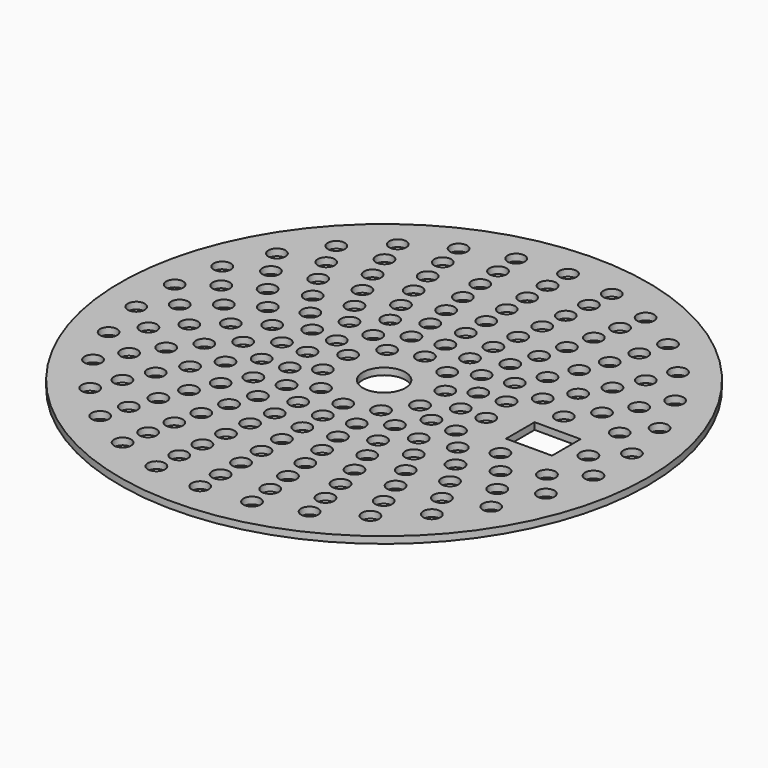
from build123d import *

# Parameters (mm, degrees)
F0_R     = 15.5
F0_R_2   = 0.5
F0_R_3   = 1.25
F1_DEPTH = 0.4
F2_W     = 2.7
F2_H     = 2.1
F3_DEPTH = 25


with BuildPart() as f1:
    # F0 (on Top) → F1 (new body)
    with BuildSketch(Plane.XY):
        Circle(F0_R)
        with Locations((-7.935101, -10.921729)):
            Circle(F0_R_2, mode=Mode.SUBTRACT)
        with Locations((-10.032455, -9.033263)):
            Circle(F0_R_2, mode=Mode.SUBTRACT)
        with Locations((-5.490945, -12.332864)):
            Circle(F0_R_2, mode=Mode.SUBTRACT)
        with Locations((-2.806808, -13.204993)):
            Circle(F0_R_2, mode=Mode.SUBTRACT)
        with Locations((-2.670251, -11.699135)):
            Circle(F0_R_2, mode=Mode.SUBTRACT)
        with Locations((-5.206605, -10.811626)):
            Circle(F0_R_2, mode=Mode.SUBTRACT)
        with Locations((-7.481878, -9.381978)):
            Circle(F0_R_2, mode=Mode.SUBTRACT)
        with Locations((-6.962788, -7.859363)):
            Circle(F0_R_2, mode=Mode.SUBTRACT)
        with Locations((-4.879593, -9.297288)):
            Circle(F0_R_2, mode=Mode.SUBTRACT)
        with Locations((-4.5, -7.794229)):
            Circle(F0_R_2, mode=Mode.SUBTRACT)
        with Locations((-2.512814, -10.194889)):
            Circle(F0_R_2, mode=Mode.SUBTRACT)
        with Locations((-2.329371, -8.693332)):
            Circle(F0_R_2, mode=Mode.SUBTRACT)
        with Locations((-11.691343, -6.75)):
            Circle(F0_R_2, mode=Mode.SUBTRACT)
        with Locations((-12.839263, -4.171729)):
            Circle(F0_R_2, mode=Mode.SUBTRACT)
        with Locations((-9.381978, -7.481878)):
            Circle(F0_R_2, mode=Mode.SUBTRACT)
        with Locations((-8.641331, -5.96468)):
            Circle(F0_R_2, mode=Mode.SUBTRACT)
        with Locations((-10.811626, -5.206605)):
            Circle(F0_R_2, mode=Mode.SUBTRACT)
        with Locations((-7.794229, -4.5)):
            Circle(F0_R_2, mode=Mode.SUBTRACT)
        with Locations((-11.699135, -2.670251)):
            Circle(F0_R_2, mode=Mode.SUBTRACT)
        with Locations((-13.426046, -1.411134)):
            Circle(F0_R_2, mode=Mode.SUBTRACT)
        with Locations((-9.817671, -3.723351)):
            Circle(F0_R_2, mode=Mode.SUBTRACT)
        with Locations((-8.693332, -2.329371)):
            Circle(F0_R_2, mode=Mode.SUBTRACT)
        with Locations((-10.423443, -1.265635)):
            Circle(F0_R_2, mode=Mode.SUBTRACT)
        with Locations((-6.363961, -6.363961)):
            Circle(F0_R_2, mode=Mode.SUBTRACT)
        with Locations((-4.054806, -6.309401)):
            Circle(F0_R_2, mode=Mode.SUBTRACT)
        with Locations((-5.668122, -4.911456)):
            Circle(F0_R_2, mode=Mode.SUBTRACT)
        with Locations((-2.112994, -7.196197)):
            Circle(F0_R_2, mode=Mode.SUBTRACT)
        with Locations((-3.526712, -4.854102)):
            Circle(F0_R_2, mode=Mode.SUBTRACT)
        with Locations((-1.854102, -5.706339)):
            Circle(F0_R_2, mode=Mode.SUBTRACT)
        with Locations((-1.722075, -4.157458)):
            Circle(F0_R_2, mode=Mode.SUBTRACT)
        with Locations((-6.82224, -3.115613)):
            Circle(F0_R_2, mode=Mode.SUBTRACT)
        with Locations((-4.854102, -3.526712)):
            Circle(F0_R_2, mode=Mode.SUBTRACT)
        with Locations((-7.423661, -1.067361)):
            Circle(F0_R_2, mode=Mode.SUBTRACT)
        with Locations((-5.706339, -1.854102)):
            Circle(F0_R_2, mode=Mode.SUBTRACT)
        with Locations((-4.157458, -1.722075)):
            Circle(F0_R_2, mode=Mode.SUBTRACT)
        with Locations((-3.181981, -3.181981)):
            Circle(F0_R_2, mode=Mode.SUBTRACT)
        with Locations((-1.763356, -2.427051)):
            Circle(F0_R_2, mode=Mode.SUBTRACT)
        with Locations((-2.85317, -0.927051)):
            Circle(F0_R_2, mode=Mode.SUBTRACT)
        with Locations((0, -13.5)):
            Circle(F0_R_2, mode=Mode.SUBTRACT)
        with Locations((0, -12)):
            Circle(F0_R_2, mode=Mode.SUBTRACT)
        with Locations((2.806808, -13.204993)):
            Circle(F0_R_2, mode=Mode.SUBTRACT)
        with Locations((2.670251, -11.699135)):
            Circle(F0_R_2, mode=Mode.SUBTRACT)
        with Locations((5.490945, -12.332864)):
            Circle(F0_R_2, mode=Mode.SUBTRACT)
        with Locations((0, -10.5)):
            Circle(F0_R_2, mode=Mode.SUBTRACT)
        with Locations((2.512814, -10.194889)):
            Circle(F0_R_2, mode=Mode.SUBTRACT)
        with Locations((0, -9)):
            Circle(F0_R_2, mode=Mode.SUBTRACT)
        with Locations((2.329371, -8.693332)):
            Circle(F0_R_2, mode=Mode.SUBTRACT)
        with Locations((5.206605, -10.811626)):
            Circle(F0_R_2, mode=Mode.SUBTRACT)
        with Locations((4.879593, -9.297288)):
            Circle(F0_R_2, mode=Mode.SUBTRACT)
        with Locations((4.5, -7.794229)):
            Circle(F0_R_2, mode=Mode.SUBTRACT)
        with Locations((7.481878, -9.381978)):
            Circle(F0_R_2, mode=Mode.SUBTRACT)
        with Locations((6.962788, -7.859363)):
            Circle(F0_R_2, mode=Mode.SUBTRACT)
        with Locations((7.935101, -10.921729)):
            Circle(F0_R_2, mode=Mode.SUBTRACT)
        with Locations((10.032455, -9.033263)):
            Circle(F0_R_2, mode=Mode.SUBTRACT)
        with Locations((0, -7.5)):
            Circle(F0_R_2, mode=Mode.SUBTRACT)
        with Locations((0, -6)):
            Circle(F0_R_2, mode=Mode.SUBTRACT)
        with Locations((2.112994, -7.196197)):
            Circle(F0_R_2, mode=Mode.SUBTRACT)
        with Locations((1.854102, -5.706339)):
            Circle(F0_R_2, mode=Mode.SUBTRACT)
        with Locations((0, -4.5)):
            Circle(F0_R_2, mode=Mode.SUBTRACT)
        with Locations((1.722075, -4.157458)):
            Circle(F0_R_2, mode=Mode.SUBTRACT)
        with Locations((3.526712, -4.854102)):
            Circle(F0_R_2, mode=Mode.SUBTRACT)
        with Locations((4.054806, -6.309401)):
            Circle(F0_R_2, mode=Mode.SUBTRACT)
        with Locations((6.363961, -6.363961)):
            Circle(F0_R_2, mode=Mode.SUBTRACT)
        with Locations((5.668122, -4.911456)):
            Circle(F0_R_2, mode=Mode.SUBTRACT)
        with Locations((0, -3)):
            Circle(F0_R_2, mode=Mode.SUBTRACT)
        with Locations((1.763356, -2.427051)):
            Circle(F0_R_2, mode=Mode.SUBTRACT)
        with Locations((3.181981, -3.181981)):
            Circle(F0_R_2, mode=Mode.SUBTRACT)
        with Locations((2.85317, -0.927051)):
            Circle(F0_R_2, mode=Mode.SUBTRACT)
        with Locations((4.854102, -3.526712)):
            Circle(F0_R_2, mode=Mode.SUBTRACT)
        with Locations((6.82224, -3.115613)):
            Circle(F0_R_2, mode=Mode.SUBTRACT)
        with Locations((4.157458, -1.722075)):
            Circle(F0_R_2, mode=Mode.SUBTRACT)
        with Locations((5.706339, -1.854102)):
            Circle(F0_R_2, mode=Mode.SUBTRACT)
        with Locations((9.381978, -7.481878)):
            Circle(F0_R_2, mode=Mode.SUBTRACT)
        with Locations((8.641331, -5.96468)):
            Circle(F0_R_2, mode=Mode.SUBTRACT)
        with Locations((7.794229, -4.5)):
            Circle(F0_R_2, mode=Mode.SUBTRACT)
        with Locations((10.811626, -5.206605)):
            Circle(F0_R_2, mode=Mode.SUBTRACT)
        with Locations((11.691343, -6.75)):
            Circle(F0_R_2, mode=Mode.SUBTRACT)
        with Locations((12.839263, -4.171729)):
            Circle(F0_R_2, mode=Mode.SUBTRACT)
        with Locations((8.693332, -2.329371)):
            Circle(F0_R_2, mode=Mode.SUBTRACT)
        with Locations((9.817671, -3.723351)):
            Circle(F0_R_2, mode=Mode.SUBTRACT)
        with Locations((11.699135, -2.670251)):
            Circle(F0_R_2, mode=Mode.SUBTRACT)
        with Locations((13.426046, -1.411134)):
            Circle(F0_R_2, mode=Mode.SUBTRACT)
        with Locations((-12, 0)):
            Circle(F0_R_2, mode=Mode.SUBTRACT)
        with Locations((-13.426046, 1.411134)):
            Circle(F0_R_2, mode=Mode.SUBTRACT)
        with Locations((-11.699135, 2.670251)):
            Circle(F0_R_2, mode=Mode.SUBTRACT)
        with Locations((-10.423443, 1.265635)):
            Circle(F0_R_2, mode=Mode.SUBTRACT)
        with Locations((-9, 0)):
            Circle(F0_R_2, mode=Mode.SUBTRACT)
        with Locations((-9.817671, 3.723351)):
            Circle(F0_R_2, mode=Mode.SUBTRACT)
        with Locations((-8.693332, 2.329371)):
            Circle(F0_R_2, mode=Mode.SUBTRACT)
        with Locations((-12.839263, 4.171729)):
            Circle(F0_R_2, mode=Mode.SUBTRACT)
        with Locations((-11.691343, 6.75)):
            Circle(F0_R_2, mode=Mode.SUBTRACT)
        with Locations((-10.811626, 5.206605)):
            Circle(F0_R_2, mode=Mode.SUBTRACT)
        with Locations((-7.794229, 4.5)):
            Circle(F0_R_2, mode=Mode.SUBTRACT)
        with Locations((-8.641331, 5.96468)):
            Circle(F0_R_2, mode=Mode.SUBTRACT)
        with Locations((-9.381978, 7.481878)):
            Circle(F0_R_2, mode=Mode.SUBTRACT)
        with Locations((-6, 0)):
            Circle(F0_R_2, mode=Mode.SUBTRACT)
        with Locations((-7.423661, 1.067361)):
            Circle(F0_R_2, mode=Mode.SUBTRACT)
        with Locations((-4.5, 0)):
            Circle(F0_R_2, mode=Mode.SUBTRACT)
        with Locations((-5.706339, 1.854102)):
            Circle(F0_R_2, mode=Mode.SUBTRACT)
        with Locations((-4.157458, 1.722075)):
            Circle(F0_R_2, mode=Mode.SUBTRACT)
        with Locations((-6.82224, 3.115613)):
            Circle(F0_R_2, mode=Mode.SUBTRACT)
        with Locations((-4.854102, 3.526712)):
            Circle(F0_R_2, mode=Mode.SUBTRACT)
        with Locations((-2.85317, 0.927051)):
            Circle(F0_R_2, mode=Mode.SUBTRACT)
        with Locations((-3.181981, 3.181981)):
            Circle(F0_R_2, mode=Mode.SUBTRACT)
        with Locations((-1.763356, 2.427051)):
            Circle(F0_R_2, mode=Mode.SUBTRACT)
        with Locations((-5.668122, 4.911456)):
            Circle(F0_R_2, mode=Mode.SUBTRACT)
        with Locations((-6.363961, 6.363961)):
            Circle(F0_R_2, mode=Mode.SUBTRACT)
        with Locations((-4.054806, 6.309401)):
            Circle(F0_R_2, mode=Mode.SUBTRACT)
        with Locations((-3.526712, 4.854102)):
            Circle(F0_R_2, mode=Mode.SUBTRACT)
        with Locations((-1.722075, 4.157458)):
            Circle(F0_R_2, mode=Mode.SUBTRACT)
        with Locations((-1.854102, 5.706339)):
            Circle(F0_R_2, mode=Mode.SUBTRACT)
        with Locations((-2.112994, 7.196197)):
            Circle(F0_R_2, mode=Mode.SUBTRACT)
        with Locations((-10.032455, 9.033263)):
            Circle(F0_R_2, mode=Mode.SUBTRACT)
        with Locations((-7.935101, 10.921729)):
            Circle(F0_R_2, mode=Mode.SUBTRACT)
        with Locations((-6.962788, 7.859363)):
            Circle(F0_R_2, mode=Mode.SUBTRACT)
        with Locations((-7.481878, 9.381978)):
            Circle(F0_R_2, mode=Mode.SUBTRACT)
        with Locations((-4.5, 7.794229)):
            Circle(F0_R_2, mode=Mode.SUBTRACT)
        with Locations((-4.879593, 9.297288)):
            Circle(F0_R_2, mode=Mode.SUBTRACT)
        with Locations((-5.206605, 10.811626)):
            Circle(F0_R_2, mode=Mode.SUBTRACT)
        with Locations((-2.329371, 8.693332)):
            Circle(F0_R_2, mode=Mode.SUBTRACT)
        with Locations((-2.512814, 10.194889)):
            Circle(F0_R_2, mode=Mode.SUBTRACT)
        with Locations((-5.490945, 12.332864)):
            Circle(F0_R_2, mode=Mode.SUBTRACT)
        with Locations((-2.670251, 11.699135)):
            Circle(F0_R_2, mode=Mode.SUBTRACT)
        with Locations((-2.806808, 13.204993)):
            Circle(F0_R_2, mode=Mode.SUBTRACT)
        Circle(F0_R_3, mode=Mode.SUBTRACT)
        with Locations((2.85317, 0.927051)):
            Circle(F0_R_2, mode=Mode.SUBTRACT)
        with Locations((1.763356, 2.427051)):
            Circle(F0_R_2, mode=Mode.SUBTRACT)
        with Locations((0, 3)):
            Circle(F0_R_2, mode=Mode.SUBTRACT)
        with Locations((3.181981, 3.181981)):
            Circle(F0_R_2, mode=Mode.SUBTRACT)
        with Locations((4.5, 0)):
            Circle(F0_R_2, mode=Mode.SUBTRACT)
        with Locations((4.157458, 1.722075)):
            Circle(F0_R_2, mode=Mode.SUBTRACT)
        with Locations((5.706339, 1.854102)):
            Circle(F0_R_2, mode=Mode.SUBTRACT)
        with Locations((6, 0)):
            Circle(F0_R_2, mode=Mode.SUBTRACT)
        with Locations((4.854102, 3.526712)):
            Circle(F0_R_2, mode=Mode.SUBTRACT)
        with Locations((6.82224, 3.115613)):
            Circle(F0_R_2, mode=Mode.SUBTRACT)
        with Locations((0, 4.5)):
            Circle(F0_R_2, mode=Mode.SUBTRACT)
        with Locations((1.722075, 4.157458)):
            Circle(F0_R_2, mode=Mode.SUBTRACT)
        with Locations((1.854102, 5.706339)):
            Circle(F0_R_2, mode=Mode.SUBTRACT)
        with Locations((3.526712, 4.854102)):
            Circle(F0_R_2, mode=Mode.SUBTRACT)
        with Locations((0, 6)):
            Circle(F0_R_2, mode=Mode.SUBTRACT)
        with Locations((0, 7.5)):
            Circle(F0_R_2, mode=Mode.SUBTRACT)
        with Locations((2.112994, 7.196197)):
            Circle(F0_R_2, mode=Mode.SUBTRACT)
        with Locations((5.668122, 4.911456)):
            Circle(F0_R_2, mode=Mode.SUBTRACT)
        with Locations((4.054806, 6.309401)):
            Circle(F0_R_2, mode=Mode.SUBTRACT)
        with Locations((6.363961, 6.363961)):
            Circle(F0_R_2, mode=Mode.SUBTRACT)
        with Locations((8.693332, 2.329371)):
            Circle(F0_R_2, mode=Mode.SUBTRACT)
        with Locations((9.817671, 3.723351)):
            Circle(F0_R_2, mode=Mode.SUBTRACT)
        with Locations((12, 0)):
            Circle(F0_R_2, mode=Mode.SUBTRACT)
        with Locations((13.426046, 1.411134)):
            Circle(F0_R_2, mode=Mode.SUBTRACT)
        with Locations((11.699135, 2.670251)):
            Circle(F0_R_2, mode=Mode.SUBTRACT)
        with Locations((7.794229, 4.5)):
            Circle(F0_R_2, mode=Mode.SUBTRACT)
        with Locations((10.811626, 5.206605)):
            Circle(F0_R_2, mode=Mode.SUBTRACT)
        with Locations((8.641331, 5.96468)):
            Circle(F0_R_2, mode=Mode.SUBTRACT)
        with Locations((9.381978, 7.481878)):
            Circle(F0_R_2, mode=Mode.SUBTRACT)
        with Locations((12.839263, 4.171729)):
            Circle(F0_R_2, mode=Mode.SUBTRACT)
        with Locations((11.691343, 6.75)):
            Circle(F0_R_2, mode=Mode.SUBTRACT)
        with Locations((0, 9)):
            Circle(F0_R_2, mode=Mode.SUBTRACT)
        with Locations((2.329371, 8.693332)):
            Circle(F0_R_2, mode=Mode.SUBTRACT)
        with Locations((0, 10.5)):
            Circle(F0_R_2, mode=Mode.SUBTRACT)
        with Locations((2.512814, 10.194889)):
            Circle(F0_R_2, mode=Mode.SUBTRACT)
        with Locations((4.5, 7.794229)):
            Circle(F0_R_2, mode=Mode.SUBTRACT)
        with Locations((4.879593, 9.297288)):
            Circle(F0_R_2, mode=Mode.SUBTRACT)
        with Locations((6.962788, 7.859363)):
            Circle(F0_R_2, mode=Mode.SUBTRACT)
        with Locations((7.481878, 9.381978)):
            Circle(F0_R_2, mode=Mode.SUBTRACT)
        with Locations((5.206605, 10.811626)):
            Circle(F0_R_2, mode=Mode.SUBTRACT)
        with Locations((0, 12)):
            Circle(F0_R_2, mode=Mode.SUBTRACT)
        with Locations((0, 13.5)):
            Circle(F0_R_2, mode=Mode.SUBTRACT)
        with Locations((2.670251, 11.699135)):
            Circle(F0_R_2, mode=Mode.SUBTRACT)
        with Locations((2.806808, 13.204993)):
            Circle(F0_R_2, mode=Mode.SUBTRACT)
        with Locations((5.490945, 12.332864)):
            Circle(F0_R_2, mode=Mode.SUBTRACT)
        with Locations((10.032455, 9.033263)):
            Circle(F0_R_2, mode=Mode.SUBTRACT)
        with Locations((7.935101, 10.921729)):
            Circle(F0_R_2, mode=Mode.SUBTRACT)
    extrude(amount=F1_DEPTH)

    # F2 (on face) → F3 (cut)
    with BuildSketch(Plane.XY.offset(0.4)):
        with Locations((9.35, 0)):
            Rectangle(F2_W, F2_H)
    extrude(amount=-F3_DEPTH, mode=Mode.SUBTRACT)


solid = f1.part
